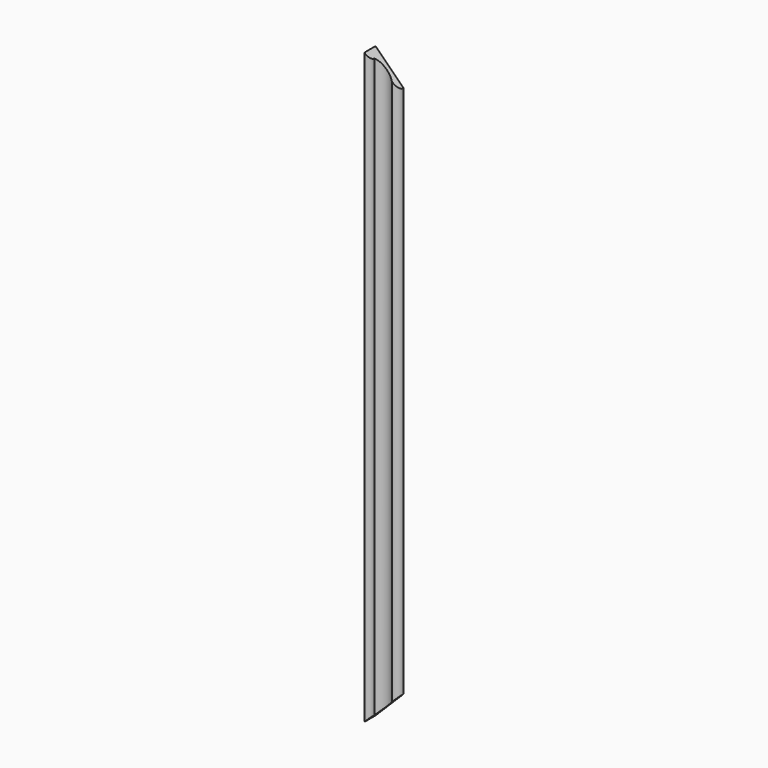
from build123d import *

# Parameters (mm, degrees)
PAD017_DEPTH = 40
PAD016_DEPTH = 40
PAD015_DEPTH = 630


with BuildPart() as body_decoration_left_cut_top001:
    # Sketch017 → Pad017 (new body)
    with BuildSketch(Plane(origin=(60, 0, 690), x_dir=(1, 0, 0), z_dir=(0, -1, 0))):
        Polygon((0, 0), (40, -40), (40, 0), align=None)
    extrude(amount=PAD017_DEPTH)


with BuildPart() as body_decoration_left_cut_bottom001:
    # Sketch016 → Pad016 (new body)
    with BuildSketch(Plane(origin=(60, 0, 60), x_dir=(1, 0, 0), z_dir=(0, -1, 0))):
        Polygon((0, 0), (40, 40), (40, 0), align=None)
    extrude(amount=PAD016_DEPTH)


with BuildPart() as cut_decoration_left001:
    # Sketch015 → Pad015 (new body)
    with BuildSketch(Plane(origin=(60, 0, 60), x_dir=(1, 0, 0), z_dir=(0, 0, 1))):
        with BuildLine():
            Line((30, 0), (0, 0))
            Line((0, -15), (0, 0))
            ThreePointArc((0, -15), (4.242641, -13.242641), (6, -9))
            ThreePointArc((23, -7), (14.080692, -4.435882), (6, -9))
            ThreePointArc((23, -7), (27.949747, -4.949747), (30, 0))
        make_face()
    extrude(amount=PAD015_DEPTH)

    # Cut006: cut Body, Decoration, Left, Cut, Bottom001
    add(body_decoration_left_cut_bottom001.part, mode=Mode.SUBTRACT)

    # Cut007: cut Body, Decoration, Left, Cut, Top001
    add(body_decoration_left_cut_top001.part, mode=Mode.SUBTRACT)


solid = cut_decoration_left001.part
